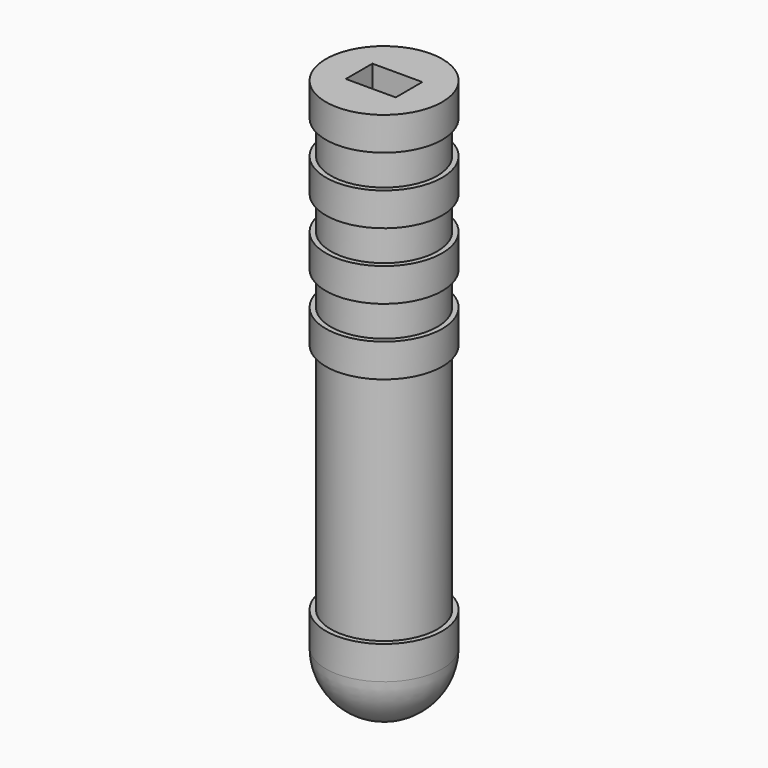
from build123d import *

# Parameters (mm, degrees)
F2_W     = 15
F2_H     = 10
F3_DEPTH = 30


with BuildPart() as f1:
    # F0 (on Front) → F1 (revolve)
    with BuildSketch(Plane.XZ):
        with BuildLine():
            Line((17.5, 0), (0, 0))
            Line((0, 0), (0, -17.5))
            ThreePointArc((0, -17.5), (12.374369, -12.374369), (17.5, 0))
        make_face()
        Polygon((0, 150), (0, 0), (17.5, 0), (17.5, 10), (16, 10), (16, 80), (17.5, 80), (17.5, 90), (16, 90), (16, 100), (17.5, 100), (17.5, 110), (16, 110), (16, 120), (17.5, 120), (17.5, 130), (16, 130), (16, 140), (17.5, 140), (17.5, 150), align=None)
    revolve(axis=Axis((0, 0, 75), (0, 0, 1)))

    # F2 (on face) → F3 (cut)
    with BuildSketch(Plane.XY.offset(150)):
        Rectangle(F2_W, F2_H)
    extrude(amount=-F3_DEPTH, mode=Mode.SUBTRACT)


solid = f1.part
